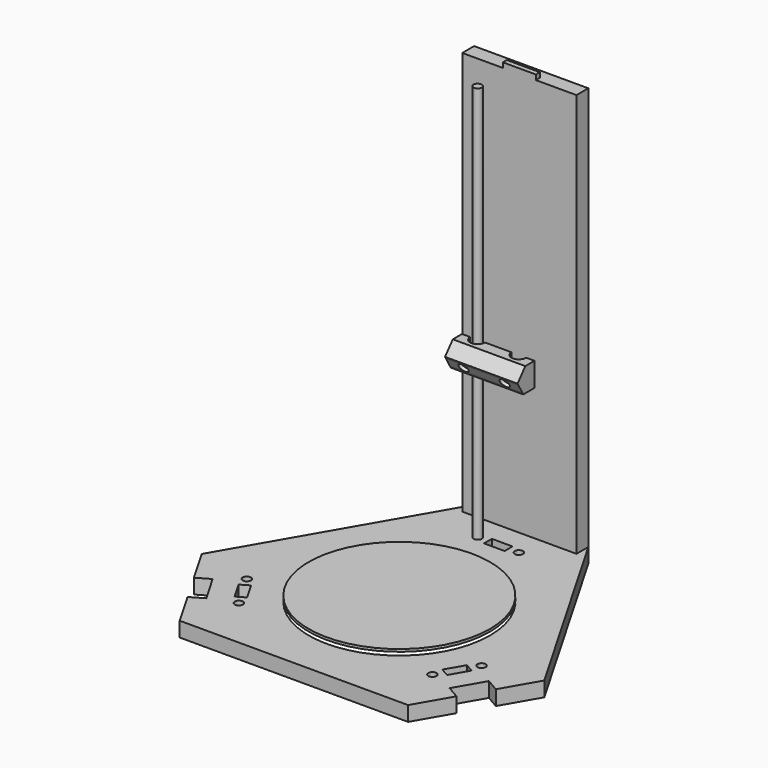
from build123d import *

# Parameters (mm, degrees)
F0_R          = 5
F0_R_2        = 110
F0_W          = 25
F0_H          = 12
F1_DEPTH      = 18
F2_DEPTH      = 500
F2_DEPTH_BACK = 50
F3_START      = 22
F3_DEPTH      = 3
F4_W          = 49.2820323028
F4_H          = 18
F4_W_2        = 40
F5_DEPTH      = 490
F6_W          = 40
F6_H          = 6
F7_DEPTH      = 6
F10_DEPTH     = 29
F12_DEPTH     = 88
F13_R         = 6
F14_DEPTH     = 4


with BuildPart() as f1:
    # F0 (on Top) → F1 (new body)
    with BuildSketch(Plane.XY):
        Polygon((-20, 200), (-69.2820323028, 200), (-207.8460969083, -40), (-183.2050807569, -82.6794919243), (-167.6166234888, -73.6794919243), (-147.6166234888, -108.3205080757), (-163.2050807569, -117.3205080757), (-138.5640646055, -160), (138.5640646055, -160), (163.2050807569, -117.3205080757), (147.6166234888, -108.3205080757), (167.6166234888, -73.6794919243), (183.2050807569, -82.6794919243), (207.8460969083, -40), (69.2820323028, 200), (20, 200), (20, 182), (-20, 182), align=None)
        with Locations((-117.4038105677, -96.6506350946)):
            Circle(F0_R, mode=Mode.SUBTRACT)
        Polygon((-141.3499629904, -67.1746824527), (-130.957658145, -61.1746824527), (-118.457658145, -82.8253175473), (-128.8499629904, -88.8253175473), align=None, mode=Mode.SUBTRACT)
        with Locations((-142.4038105677, -53.3493649054)):
            Circle(F0_R, mode=Mode.SUBTRACT)
        Circle(F0_R_2, mode=Mode.SUBTRACT)
        with Locations((117.4038105677, -96.6506350946)):
            Circle(F0_R, mode=Mode.SUBTRACT)
        Polygon((128.8499629904, -88.8253175473), (118.457658145, -82.8253175473), (130.957658145, -61.1746824527), (141.3499629904, -67.1746824527), align=None, mode=Mode.SUBTRACT)
        with Locations((142.4038105677, -53.3493649054)):
            Circle(F0_R, mode=Mode.SUBTRACT)
        with Locations((-25, 150)):
            Circle(F0_R, mode=Mode.SUBTRACT)
        with Locations((0, 150)):
            Rectangle(F0_W, F0_H, mode=Mode.SUBTRACT)
        with Locations((25, 150)):
            Circle(F0_R, mode=Mode.SUBTRACT)
    extrude(amount=F1_DEPTH)


with BuildPart() as f2:
    # F0 (on Top) → F2 (new body, two sides)
    with BuildSketch(Plane.XY) as f2_sk:
        with Locations((-25, 150)):
            Circle(F0_R)
    extrude(amount=F2_DEPTH)
    extrude(f2_sk.sketch, amount=-F2_DEPTH_BACK)


with BuildPart() as f3:
    # F0 (on Top) → F3 (new body)
    with BuildSketch(Plane.XY.offset(F3_START)):
        Circle(F0_R_2)
    extrude(amount=F3_DEPTH)


with BuildPart() as f5:
    # F4 (on face) → F5 (new body)
    with BuildSketch(Plane.XY.offset(18)):
        with Locations((-44.6410161514, 191)):
            Rectangle(F4_W, F4_H)
        with Locations((0, 191)):
            Rectangle(F4_W_2, F4_H)
        with Locations((44.6410161514, 191)):
            Rectangle(F4_W, F4_H)
    extrude(amount=F5_DEPTH)

    # F6 (on face) → F7 (join)
    with BuildSketch(Plane.XZ.offset(-182)):
        with Locations((0, 15)):
            Rectangle(F6_W, F6_H)
        with Locations((0, 511)):
            Rectangle(F6_W, F6_H)
    extrude(amount=-F7_DEPTH)


with BuildPart() as f10:
    # F9 (on offset) → F10 (new body)
    with BuildSketch(Plane.XY.offset(200)):
        with BuildLine():
            ThreePointArc((-16, 150), (-25, 141), (-34, 150))
            Line((-34, 150), (-44, 150))
            Line((-44, 150), (-44, 136))
            Line((-44, 136), (44, 136))
            Line((44, 136), (44, 150))
            Line((44, 150), (34, 150))
            ThreePointArc((34, 150), (25, 141), (16, 150))
            Line((16, 150), (-16, 150))
        make_face()
    extrude(amount=F10_DEPTH)

    # F11 (on face) → F12 (join)
    with BuildSketch(Plane(origin=(-44, 0, 0), x_dir=(0, -1, 0), z_dir=(-1, 0, 0))):
        Polygon((-131.5980762114, 202.3106503669), (-135.0621778265, 204.3106503669), (-129.0621778265, 214.7029552123), (-125.5980762114, 212.7029552123), (-124.2640216, 215.0136055792), (-136, 229), (-136, 200), (-132.9321308227, 200), align=None)
        Polygon((-129.0621778265, 214.7029552123), (-135.0621778265, 204.3106503669), (-131.5980762114, 202.3106503669), (-125.5980762114, 212.7029552123), align=None)
        Polygon((-131.5980762114, 202.3106503669), (-135.0621778265, 204.3106503669), (-129.0621778265, 214.7029552123), (-125.5980762114, 212.7029552123), (-124.2640216, 215.0136055792), (-136, 229), (-136, 200), (-132.9321308227, 200), align=None)
    extrude(amount=-F12_DEPTH)

    # F13 (on face) → F14 (cut)
    with BuildSketch(Plane(origin=(0, 186.3016384955, 107.5613011358), x_dir=(1, 0, 0), z_dir=(0, -0.8660254038, -0.5))):
        with Locations((-25, 115.4071245682)):
            Circle(F13_R)
        with Locations((25, 115.4071245682)):
            Circle(F13_R)
    extrude(amount=-F14_DEPTH, mode=Mode.SUBTRACT)


solid = Compound([f1.part, f2.part, f3.part, f5.part, f10.part])
